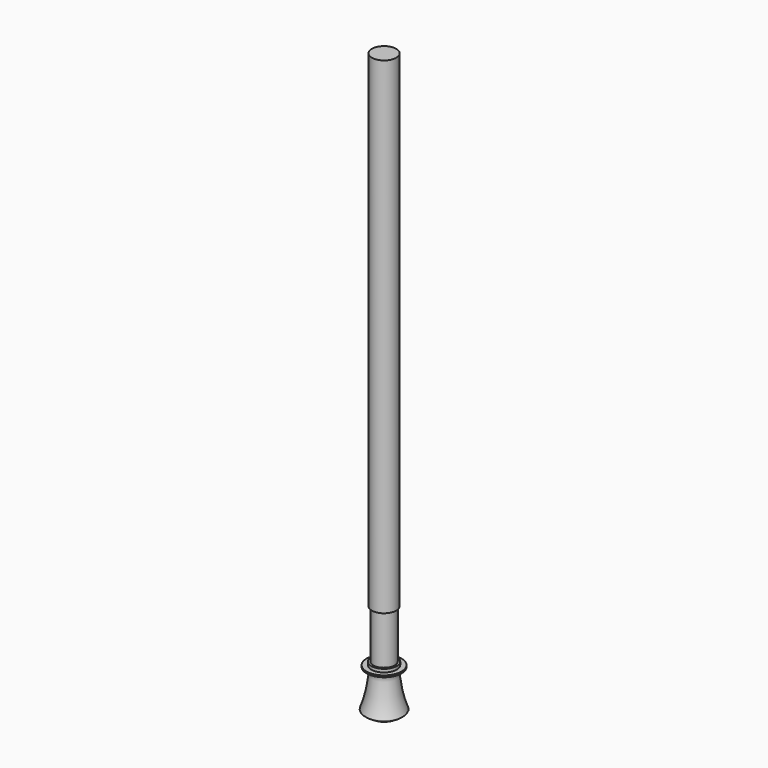
from build123d import *

# Parameters (mm, degrees)
F0_W   = 12.7
F0_H   = 31.75
F0_W_2 = 11.176
F0_H_2 = 50.8
F0_H_3 = 406.4


with BuildPart() as f1:
    # F0 (on Front) → F1 (revolve)
    with BuildSketch(Plane.XZ):
        with Locations((-6.35, 15.875)):
            Rectangle(F0_W, F0_H)
        Polygon((0, -69.85), (0, 0), (-12.7, 0), (-12.7, -476.25), (-11.176, -476.25), (-11.176, -69.85), align=None)
    revolve(axis=Axis((0, 0, 24.257), (0, 0, 1)))


with BuildPart() as f2:
    # F0 (on Front) → F2 (revolve)
    with BuildSketch(Plane.XZ):
        with BuildLine():
            Line((0, -575.564), (0, -527.05))
            Line((0, -527.05), (-11.176, -527.05))
            Line((-11.176, -527.05), (-13.208, -527.05))
            Line((-13.208, -527.05), (-13.208, -530.352))
            Line((-13.208, -530.352), (-18.288, -530.352))
            Line((-18.288, -530.352), (-18.288, -532.13))
            Line((-18.288, -532.13), (-14.732, -532.13))
            add(Edge.make_bspline(
                [(-14.732, -532.13), (-13.7912394002, -533.5537187468), (-10.8289686776, -538.0367300057), (-18.2487414169, -568.3987942294), (-20.697436931, -571.2649046742), (-17.765557055, -573.0458740216), (-16.129, -574.04)],
                knots=[0, 0, 0, 0, 0.2152950135, 0.6779217958, 0.8202179559, 1, 1, 1, 1], degree=3))
            Line((-16.129, -574.04), (-13.589, -574.04))
            Line((-13.589, -574.04), (-13.589, -575.564))
            Line((-13.589, -575.564), (0, -575.564))
        make_face()
        with Locations((-5.588, -501.65)):
            Rectangle(F0_W_2, F0_H_2)
        with Locations((-5.588, -273.05)):
            Rectangle(F0_W_2, F0_H_3)
    revolve(axis=Axis((0, 0, -263.525), (0, 0, 1)))


solid = Compound([f1.part, f2.part])
